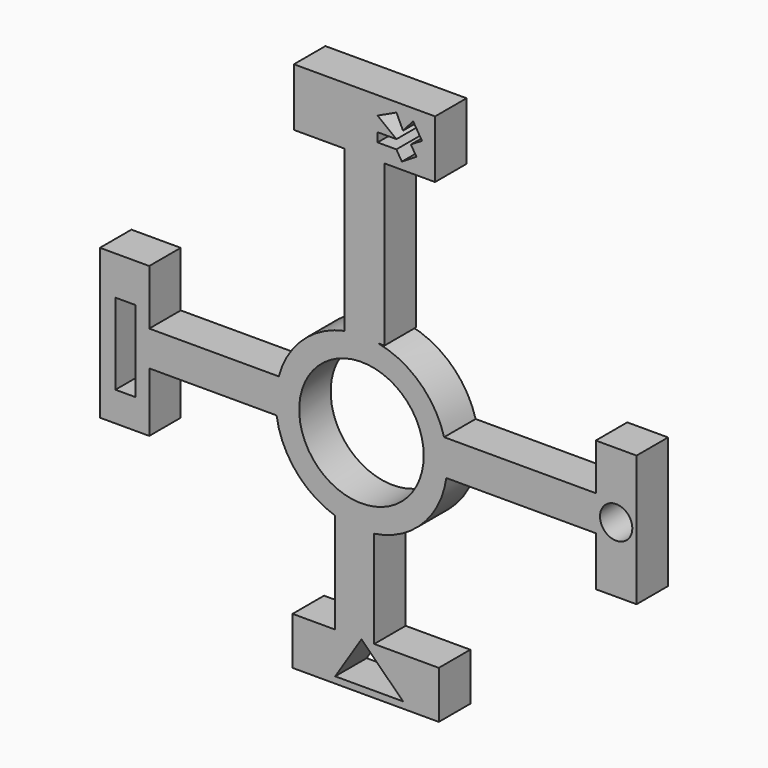
from build123d import *

# Parameters (mm, degrees)
F0_R     = 10.995
F0_R_2   = 2.8522068108
F0_W     = 3.5305134952
F0_H     = 14.3181825988
F1_DEPTH = 6.95


with BuildPart() as f1:
    # F0 (on Front) → F1 (new body)
    with BuildSketch(Plane.XZ):
        with BuildLine():
            ThreePointArc((14.9894998618, -2.1760424297), (15.107293089, -1.0908539259), (15.14662559, 0))
            ThreePointArc((15.14662559, 0), (15.0082806812, 2.0424930256), (14.5957731596, 4.0476749669))
            Line((14.5957731596, 4.0476749669), (14.5957731596, -2.1760424297))
            Line((14.5957731596, -2.1760424297), (14.9894998618, -2.1760424297))
        make_face()
        with BuildLine():
            ThreePointArc((14.5957731596, 4.0476749669), (15.0082806812, 2.0424930256), (15.14662559, 0))
            ThreePointArc((15.14662559, 0), (15.107293089, -1.0908539259), (14.9894998618, -2.1760424297))
            Line((14.9894998618, -2.1760424297), (41.3736235458, -2.1760424297))
            Line((41.3736235458, -2.1760424297), (41.3736235458, 4.0476749669))
            Line((41.3736235458, 4.0476749669), (14.5957731596, 4.0476749669))
        make_face()
        with BuildLine():
            Line((14.5957731596, -2.1760424297), (14.5957731596, 4.0476749669))
            ThreePointArc((14.5957731596, 4.0476749669), (10.3099619711, 11.0961682989), (2.9660639576, 14.85337441))
            Line((2.9660639576, 14.85337441), (-2.9660639576, 14.85337441))
            ThreePointArc((-2.9660639576, 14.85337441), (-10.3302795674, 11.0772555637), (-14.6105106865, 3.9941512544))
            Line((-14.6105106865, 3.9941512544), (-14.6105106865, -2.1891111334))
            Line((-14.6105106865, -2.1891111334), (-14.9875968457, -2.1891111334))
            ThreePointArc((-14.9875968457, -2.1891111334), (-11.5624612015, -9.7841585089), (-4.6388409939, -14.4187870848))
            Line((-4.6388409939, -14.4187870848), (2.2469951438, -14.4187870848))
            Line((2.2469951438, -14.4187870848), (2.2469951438, -14.9790279921))
            ThreePointArc((2.2469951438, -14.9790279921), (10.7356089649, -10.6848943334), (14.9894998618, -2.1760424297))
            Line((14.9894998618, -2.1760424297), (14.5957731596, -2.1760424297))
        make_face()
        Circle(F0_R, mode=Mode.SUBTRACT)
        with BuildLine():
            Line((-2.9660639576, 14.85337441), (2.9660639576, 14.85337441))
            ThreePointArc((2.9660639576, 14.85337441), (0, 15.14662559), (-2.9660639576, 14.85337441))
        make_face()
        with BuildLine():
            ThreePointArc((-2.9660639576, 14.85337441), (0, 15.14662559), (2.9660639576, 14.85337441))
            Line((2.9660639576, 14.85337441), (4.0608331902, 14.85337441))
            Line((4.0608331902, 14.85337441), (4.0608331902, 43.1828327542))
            Line((4.0608331902, 43.1828327542), (-2.9660639576, 43.1828327542))
            Line((-2.9660639576, 43.1828327542), (-2.9660639576, 14.85337441))
        make_face()
        Polygon((41.3736235458, 12.2336904777), (41.3736235458, 4.0476749669), (41.3736235458, -2.1760424297), (41.3736235458, -10.8813617154), (48.5794513875, -10.8813617154), (48.5794513875, 12.2336904777), align=None)
        with Locations((44.9765374666, 0.6761643811)):
            Circle(F0_R_2, mode=Mode.SUBTRACT)
        with BuildLine():
            Line((2.2469951438, -32.1216244697), (2.2469951438, -14.9790279921))
            ThreePointArc((2.2469951438, -14.9790279921), (-1.2282911345, -15.0967402989), (-4.6388409939, -14.4187870848))
            Line((-4.6388409939, -14.4187870848), (-4.6388409939, -32.1216244697))
            Line((-4.6388409939, -32.1216244697), (0, -32.1216244697))
            Line((0, -32.1216244697), (2.2469951438, -32.1216244697))
        make_face()
        with BuildLine():
            ThreePointArc((-4.6388409939, -14.4187870848), (-1.2282911345, -15.0967402989), (2.2469951438, -14.9790279921))
            Line((2.2469951438, -14.9790279921), (2.2469951438, -14.4187870848))
            Line((2.2469951438, -14.4187870848), (-4.6388409939, -14.4187870848))
        make_face()
        Polygon((13.6571058018, -32.1216244697), (2.2469951438, -32.1216244697), (0, -32.1216244697), (-4.6388409939, -32.1216244697), (-12.1677635011, -32.1216244697), (-12.1677635011, -40.5263914726), (13.6571058018, -40.5263914726), align=None)
        Polygon((-4.6388409939, -39.3873604088), (0, -32.1216244697), (7.3530783801, -39.3873604088), align=None, mode=Mode.SUBTRACT)
        with BuildLine():
            Line((-14.6105106865, -2.1891111334), (-14.6105106865, 3.9941512544))
            ThreePointArc((-14.6105106865, 3.9941512544), (-15.1185374892, 0.9220037703), (-14.9875968457, -2.1891111334))
            Line((-14.9875968457, -2.1891111334), (-14.6105106865, -2.1891111334))
        make_face()
        with BuildLine():
            ThreePointArc((-14.9875968457, -2.1891111334), (-15.1185374892, 0.9220037703), (-14.6105106865, 3.9941512544))
            Line((-14.6105106865, 3.9941512544), (-37.4724770353, 3.9941512544))
            Line((-37.4724770353, 3.9941512544), (-37.4724770353, -2.1891111334))
            Line((-37.4724770353, -2.1891111334), (-14.9875968457, -2.1891111334))
        make_face()
        Polygon((-11.9280541679, 43.1828327542), (-2.9660639576, 43.1828327542), (4.0608331902, 43.1828327542), (12.9987619274, 43.1828327542), (12.9987619274, 53.3904769023), (-11.9280541679, 53.3904769023), align=None)
        Polygon((7.3341168702, 49.3249146101), (9.120484814, 51.3885430992), (10.6896022335, 48.8387309015), (8.7307332637, 47.6332713678), (9.7101677486, 46.0416925825), (7.1384706286, 44.4591074995), (6.1645707376, 46.0416925825), (2.8440230526, 46.0416925825), (2.8440230526, 47.6332713678), (6.178392563, 47.6332713678), (2.8440230526, 50.2117052674), (6.178392563, 51.7808236182), align=None, mode=Mode.SUBTRACT)
        Polygon((-37.4724770353, -2.1891111334), (-37.4724770353, 3.9941512544), (-37.4724770353, 13.7209764165), (-46.1786346681, 13.7209764165), (-46.1786346681, -12.6961955034), (-37.4724770353, -12.6961955034), align=None)
        with Locations((-41.6796412319, -0.2942092251)):
            Rectangle(F0_W, F0_H, mode=Mode.SUBTRACT)
    extrude(amount=-F1_DEPTH)


solid = f1.part
